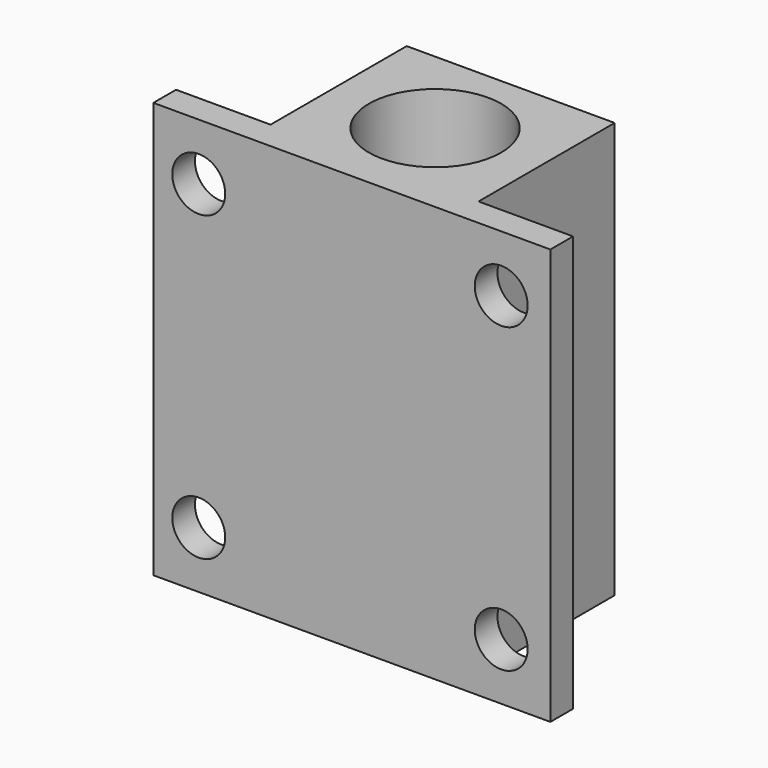
from build123d import *

# Parameters (mm, degrees)
F0_R     = 17.5
F1_DEPTH = 110
F2_R     = 7
F3_DEPTH = 25


with BuildPart() as f1:
    # F0 (on Top) → F1 (new body)
    with BuildSketch(Plane.XY):
        Polygon((-52.5, 7.5), (-52.5, 0), (0, 0), (52.5, 0), (52.5, 7.5), (27.5, 7.5), (27.5, 52.5), (0, 52.5), (-27.5, 52.5), (-27.5, 7.5), align=None)
        with Locations((0, 27.5)):
            Circle(F0_R, mode=Mode.SUBTRACT)
    extrude(amount=F1_DEPTH)

    # F2 (on face) → F3 (cut)
    with BuildSketch(Plane.XZ):
        with Locations((-40.5, 95)):
            Circle(F2_R)
        with Locations((39.5, 95)):
            Circle(F2_R)
        with Locations((-40.5, 15)):
            Circle(F2_R)
        with Locations((39.5, 15)):
            Circle(F2_R)
    extrude(amount=-F3_DEPTH, mode=Mode.SUBTRACT)


solid = f1.part
